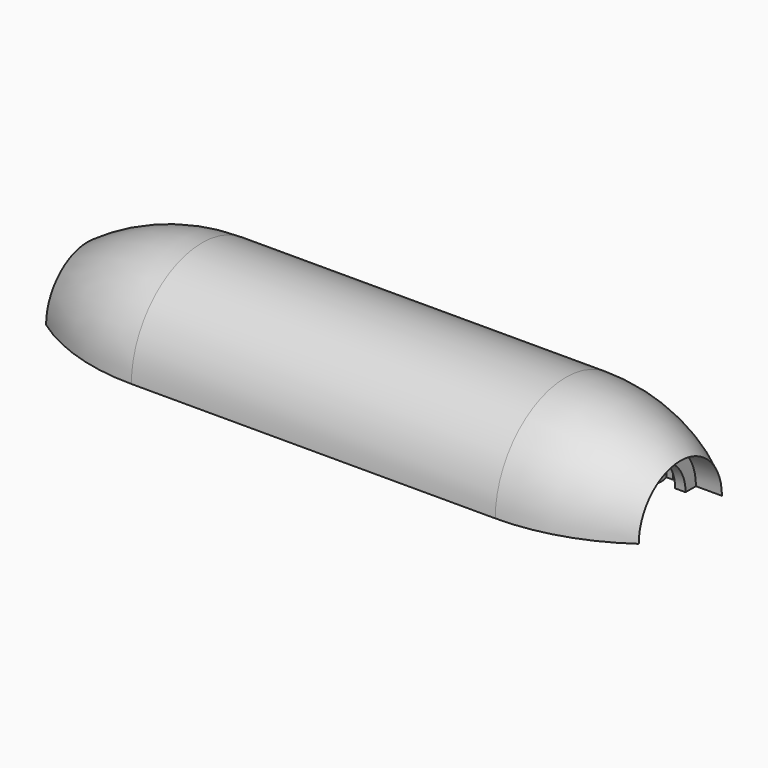
from build123d import *

# Parameters (mm, degrees)
REVOLUTION_ANGLE = -180
SKETCH001_W      = 34
SKETCH001_H      = 1
PAD_DEPTH        = 1
SKETCH002_W      = 36
SKETCH002_H      = 1.5
POCKET_DEPTH     = 1
SKETCH003_R      = 4
PAD001_DEPTH     = 8


with BuildPart() as part:
    # Sketch → Revolution (revolve)
    with BuildSketch(Plane.XY):
        with BuildLine():
            Line((-35, -17), (35, -17))
            ThreePointArc((35, -17), (46.543396, -15.207817), (57, -10))
            Line((57, -10), (52, -10))
            Line((52, -10), (52, -7.5))
            Line((52, -7.5), (50, -7.5))
            Line((50, -7.5), (50, -11.758585))
            ThreePointArc((48, -12.600664), (49.00633, -12.194658), (50, -11.758585))
            Line((48, -9.5), (48, -12.600664))
            Line((35, -9.5), (48, -9.5))
            Line((35, -14), (35, -9.5))
            Line((35, -14), (-35, -14))
            Line((-35, -14), (-35, -9.5))
            Line((-35, -9.5), (-48, -9.5))
            Line((-48, -9.5), (-48, -12.600664))
            ThreePointArc((-50, -11.758585), (-49.00633, -12.194658), (-48, -12.600664))
            Line((-50, -11.758585), (-50, -7.5))
            Line((-50, -7.5), (-52, -7.5))
            Line((-52, -7.5), (-52, -10))
            Line((-52, -10), (-57, -10))
            ThreePointArc((-57, -10), (-46.543396, -15.207817), (-35, -17))
        make_face()
    revolve(axis=Axis((0, 0, 0), (1, 0, 0)), revolution_arc=REVOLUTION_ANGLE)

    # Sketch001 → Pad (new body)
    with BuildSketch(Plane.XY):
        with Locations((18, 14.5)):
            Rectangle(SKETCH001_W, SKETCH001_H)
    pad = extrude(amount=-PAD_DEPTH)

    # Mirrored: Pad across XZ
    add(pad.mirror(Plane.XZ))

    # Sketch002 → Pocket (cut)
    with BuildSketch(Plane.XY):
        with Locations((-17, 14.75)):
            Rectangle(SKETCH002_W, SKETCH002_H)
    pocket = extrude(amount=POCKET_DEPTH, mode=Mode.SUBTRACT)

    # Mirrored001: Pocket across XZ
    add(pocket.mirror(Plane.XZ), mode=Mode.SUBTRACT)

    # Sketch003 → Pad001 (join)
    with BuildSketch(Plane.XY):
        with Locations((43, -8)):
            Circle(SKETCH003_R)
        with Locations((-43, -8)):
            Circle(SKETCH003_R)
        with Locations((-43, 8)):
            Circle(SKETCH003_R)
        with Locations((43, 8)):
            Circle(SKETCH003_R)
    extrude(amount=PAD001_DEPTH)


solid = part.part
